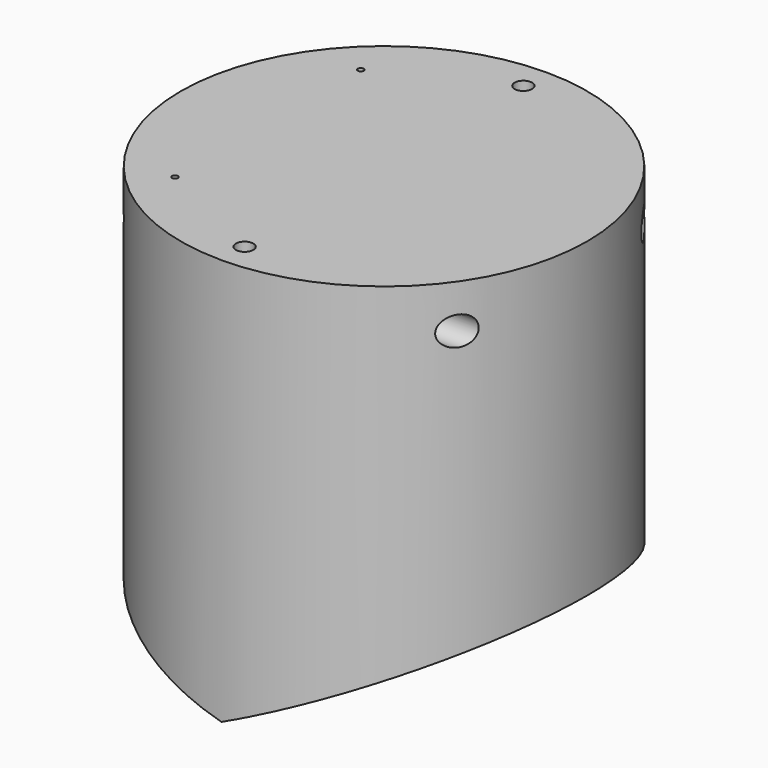
from build123d import *

# Parameters (mm, degrees)
F0_R          = 35
F1_DEPTH      = 70
F3_DEPTH      = 35.001
F3_DEPTH_BACK = 35.001
F4_R          = 2.5
F5_DEPTH      = 35.001
F5_DEPTH_BACK = 35.001
F8_R          = 0.5
F9_DEPTH      = 20
F10_R         = 1.5
F11_DEPTH     = 70.0010001


with BuildPart() as f1:
    # F0 (on Top) → F1 (new body)
    with BuildSketch(Plane.XY):
        Circle(F0_R)
    extrude(amount=F1_DEPTH)

    # F2 (on Front) → F3 (cut, two sides)
    with BuildSketch(Plane.XZ) as f3_sk:
        Polygon((-50, 0), (0, 0), (-50, 13.3974596216), align=None)
        Polygon((50, 23.3153829077), (0, 0), (50, 0), align=None)
    extrude(amount=-F3_DEPTH, mode=Mode.SUBTRACT)
    extrude(f3_sk.sketch, amount=F3_DEPTH_BACK, mode=Mode.SUBTRACT)

    # F4 (on Right) → F5 (cut, two sides)
    with BuildSketch(Plane.YZ) as f5_sk:
        with Locations((-20, 62.5)):
            Circle(F4_R)
        with Locations((20, 62.5)):
            Circle(F4_R)
    extrude(amount=-F5_DEPTH, mode=Mode.SUBTRACT)
    extrude(f5_sk.sketch, amount=F5_DEPTH_BACK, mode=Mode.SUBTRACT)

    # F6 (on Front) → F7 (revolve, cut)
    with BuildSketch(Plane.XZ):
        with BuildLine():
            Line((0, 15), (0, 55))
            ThreePointArc((0, 55), (-20, 35), (0, 15))
        make_face()
    revolve(axis=Axis((0, 0, 35), (0, 0, -1)), mode=Mode.SUBTRACT)

    # F8 (on face) → F9 (cut)
    with BuildSketch(Plane.XY.offset(70)):
        with Locations((-20, 20)):
            Circle(F8_R)
        with Locations((-20, -20)):
            Circle(F8_R)
    extrude(amount=-F9_DEPTH, mode=Mode.SUBTRACT)

    # F10 (on face) → F11 (cut, through all)
    with BuildSketch(Plane.XY.offset(70)):
        with Locations((0, 30)):
            Circle(F10_R)
        with Locations((0, -30)):
            Circle(F10_R)
    extrude(amount=-F11_DEPTH, mode=Mode.SUBTRACT)


solid = f1.part
